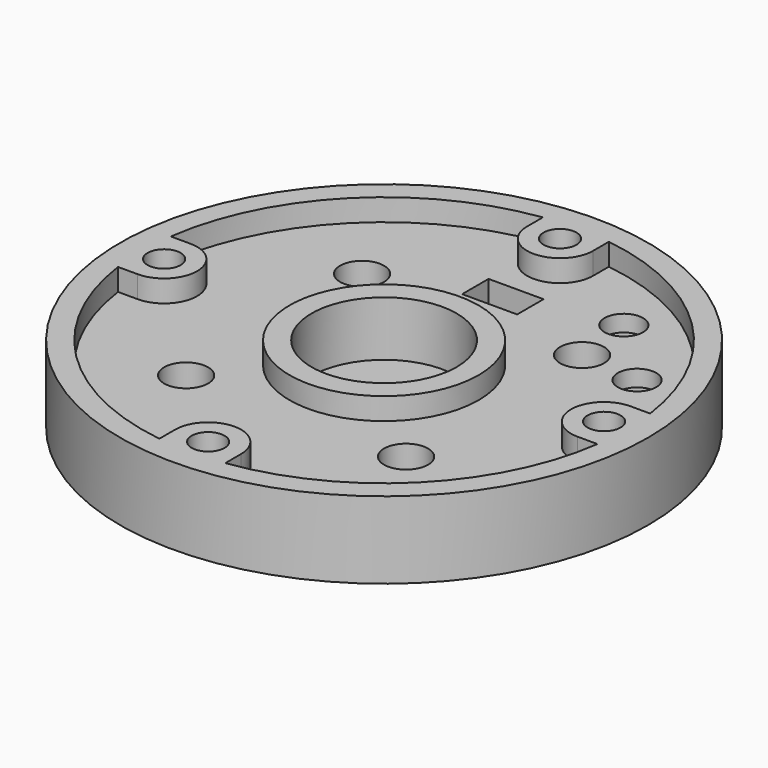
from build123d import *

# Parameters (mm, degrees)
REVOLVE_ONTO_SKETCH002_ROLL_ANGLE = 90
ARRAY_COUNT                       = 4
PAD_DEPTH                         = 2
POLARPATTERN_COUNT                = 4
SKETCH005_R                       = 1.6
POCKET_DEPTH                      = 5.001
SKETCH007_W                       = 5
SKETCH007_H                       = 3
POCKET001_DEPTH                   = 5.001
SKETCH008_R                       = 2
POCKET002_DEPTH                   = 4
SKETCH009_R                       = 1.75
POCKET003_DEPTH                   = 5.001
SKETCH010_R                       = 2.7
POCKET004_DEPTH                   = 3.5


with BuildPart() as array:
    # Sketch002 as drawn → Revolve (revolve)
    with BuildSketch(Plane.XY):
        Polygon((17.25, -1), (17.25, 4), (18.5, 4), (18.5, 8), (20, 8), (20, -1), align=None)
    revolve(axis=Axis((20, 8, 0), (0, -1, 0)))


with BuildPart() as array_1:
    # Revolve onto Sketch002 roll: moved
    add(array.part.rotate(Axis((0, 0, 0), (1, 0, 0)), REVOLVE_ONTO_SKETCH002_ROLL_ANGLE))


with BuildPart() as array_2:
    # Revolve onto Sketch002 placement: moved
    add(array_1.part)

    # Array: Array ×4 about axis
    array_axis = Axis((0, 0, 0), (0, 0, 1))


with BuildPart() as array_3:
    add(array_2.part)
    for i in range(1, ARRAY_COUNT):
        add(array_2.part.rotate(array_axis, i * 360 / ARRAY_COUNT))


with BuildPart() as pocket004:
    # Sketch → Revolution (revolve)
    with BuildSketch(Plane.XZ):
        Polygon((0, 0), (24, 0), (24, 7), (22, 7), (22, 5), (8.6, 5), (8.6, 7), (6.6, 7), (6.6, 2), (0, 2), align=None)
    revolve(axis=Axis((0, 0, 0), (0, 0, 1)))

    # Sketch004 → Pad (new body)
    with BuildSketch(Plane(origin=(0, 0, 7), x_dir=(-1, 0, 0), z_dir=(0, 0, 1))):
        with BuildLine():
            Line((3, -22), (-3, -22))
            Line((-3, -22), (-3, -20))
            ThreePointArc((3, -20), (0, -17), (-3, -20))
            Line((3, -20), (3, -22))
        make_face()
    pad = extrude(amount=-PAD_DEPTH)

    # PolarPattern: Pad ×4 about axis
    polarpattern_axis = Axis((0, 0, 7), (0, 0, 1))
    for i in range(1, POLARPATTERN_COUNT):
        add(pad.rotate(polarpattern_axis, i * 360 / POLARPATTERN_COUNT))

    # Cut: cut Array
    add(array_3.part, mode=Mode.SUBTRACT)

    # Sketch005 → Pocket (cut, through all)
    with BuildSketch(Plane.XY.offset(5)):
        with Locations((-10, 10)):
            Circle(SKETCH005_R)
        with Locations((10, 10)):
            Circle(SKETCH005_R)
        with Locations((10, -10)):
            Circle(SKETCH005_R)
        with Locations((-10, -10)):
            Circle(SKETCH005_R)
    extrude(amount=-POCKET_DEPTH, mode=Mode.SUBTRACT)

    # Sketch007 → Pocket001 (cut, through all)
    with BuildSketch(Plane.XY.offset(5)):
        with Locations((0, 13.5)):
            Rectangle(SKETCH007_W, SKETCH007_H)
    extrude(amount=-POCKET001_DEPTH, mode=Mode.SUBTRACT)

    # Sketch008 → Pocket002 (cut)
    with BuildSketch(Plane.XY.offset(5)):
        with Locations((-10, 10)):
            Circle(SKETCH008_R)
        with Locations((10, 10)):
            Circle(SKETCH008_R)
        with Locations((10, -10)):
            Circle(SKETCH008_R)
        with Locations((-10, -10)):
            Circle(SKETCH008_R)
    extrude(amount=-POCKET002_DEPTH, mode=Mode.SUBTRACT)

    # Sketch009 → Pocket003 (cut, through all)
    with BuildSketch(Plane.XY.offset(5)):
        with Locations((9.439876, 15.450283)):
            Circle(SKETCH009_R)
        with Locations((15.450283, 9.439876)):
            Circle(SKETCH009_R)
    extrude(amount=-POCKET003_DEPTH, mode=Mode.SUBTRACT)

    # Sketch010 → Pocket004 (cut)
    with BuildSketch(Plane(origin=(0, 0, 0), x_dir=(1, 0, 0), z_dir=(0, 0, -1))):
        with Locations((15.450283, -9.439876)):
            Circle(SKETCH010_R)
        with Locations((9.439876, -15.450283)):
            Circle(SKETCH010_R)
    extrude(amount=-POCKET004_DEPTH, mode=Mode.SUBTRACT)


solid = pocket004.part
